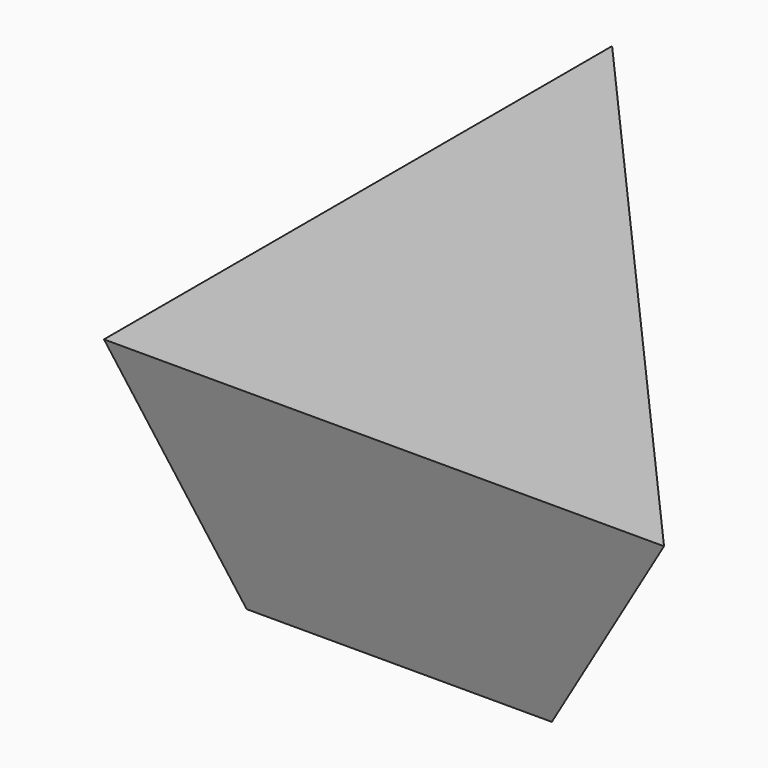
from build123d import *

# Parameters (mm, degrees)
F1_DEPTH = 15
F1_TAPER = -18


with BuildPart() as f1:
    # F0 (on Top) → F1 (new body)
    with BuildSketch(Plane.XY):
        Polygon((0, 21.2788581848), (0, 0), (17.0422513038, 0), (18.7628641725, 0), align=None)
    extrude(amount=F1_DEPTH, taper=F1_TAPER)


solid = f1.part
